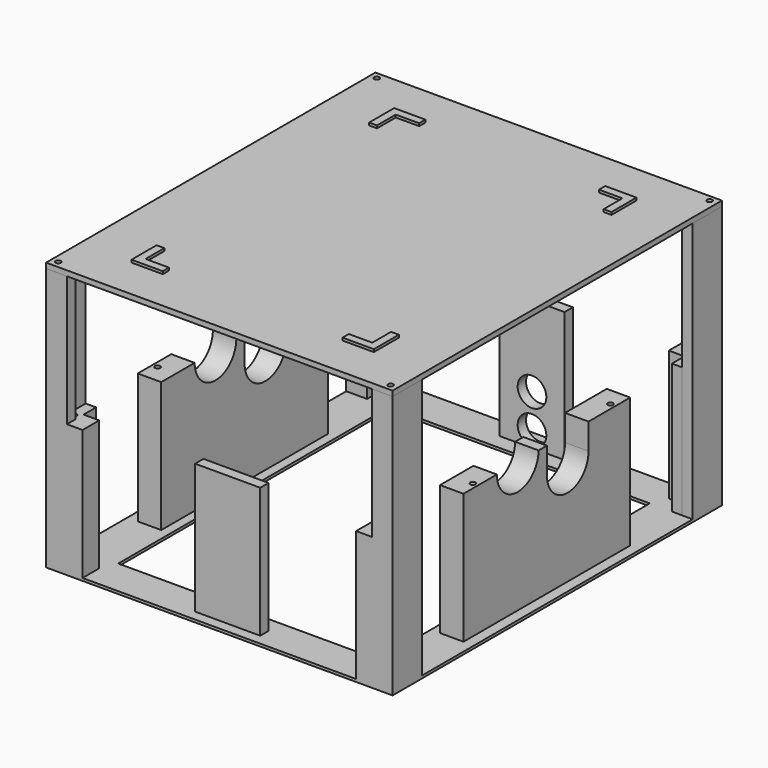
from build123d import *

# Parameters (mm, degrees)
F1_DEPTH  = 1
F2_W      = 125
F2_H      = 150
F3_DEPTH  = 50
F4_W      = 117
F4_H      = 142
F5_DEPTH  = 50
F6_R      = 1
F7_DEPTH  = 3
F8_W      = 20
F8_H      = 10
F10_DEPTH = 129.001
F11_DEPTH = 129.001
F13_DEPTH = 129.001
F14_R     = 5.5
F15_DEPTH = 4
F16_W     = 40
F16_H     = 50
F17_DEPTH = 154.001
F18_W     = 25
F18_H     = 50
F19_DEPTH = 129.001
F20_W     = 10
F20_H     = 4
F20_W_2   = 4
F20_H_2   = 10
F21_DEPTH = 100
F22_R     = 1
F23_DEPTH = 25
F24_DEPTH = 5
F25_DEPTH = 5
F26_W     = 100
F26_H     = 130
F27_DEPTH = 1.001
F28_W     = 6
F28_H     = 50
F29_DEPTH = 158.001
F31_W     = 133
F31_H     = 158
F31_R     = 1
F32_DEPTH = 2
F33_DEPTH = 3


with BuildPart() as f1:
    # F0 (on Top) → F1 (new body)
    with BuildSketch(Plane.XY):
        Polygon((-62.5, 79), (-66.5, 79), (-66.5, -79), (66.5, -79), (66.5, 79), align=None)
    extrude(amount=F1_DEPTH)

    # F2 (on face) → F3 (join)
    with BuildSketch(Plane.XY.offset(1)):
        Rectangle(F2_W, F2_H)
    extrude(amount=F3_DEPTH)

    # F4 (on face) → F5 (cut)
    with BuildSketch(Plane.XY.offset(51)):
        Rectangle(F4_W, F4_H)
    extrude(amount=-F5_DEPTH, mode=Mode.SUBTRACT)

    # F6 (on face) → F7 (cut)
    with BuildSketch(Plane.XY.offset(51)):
        with Locations((-60.5, 73)):
            Circle(F6_R)
        with Locations((60.5, 73)):
            Circle(F6_R)
        with Locations((60.5, 33)):
            Circle(F6_R)
        with Locations((60.5, -33)):
            Circle(F6_R)
        with Locations((60.5, -73)):
            Circle(F6_R)
        with Locations((-60.5, -73)):
            Circle(F6_R)
        with Locations((-60.5, -33)):
            Circle(F6_R)
        with Locations((-60.5, 33)):
            Circle(F6_R)
    extrude(amount=-F7_DEPTH, mode=Mode.SUBTRACT)

    # F8 (on face) → F10 (cut, through all)
    with BuildSketch(Plane.YZ.offset(62.5)):
        with Locations((10, 46)):
            Rectangle(F8_W, F8_H)
    extrude(amount=-F10_DEPTH, mode=Mode.SUBTRACT)

    # F9 (on face) → F11 (cut, through all)
    with BuildSketch(Plane.YZ.offset(62.5)):
        with BuildLine():
            ThreePointArc((10.0000000862, 51), (2.9289321577, 33.9289322186), (20, 41))
            ThreePointArc((20, 41), (17.0710678423, 48.0710677814), (10.0000000862, 51))
        make_face()
    extrude(amount=-F11_DEPTH, mode=Mode.SUBTRACT)

    # F12 (on face) → F13 (cut, through all)
    with BuildSketch(Plane.YZ.offset(62.5)):
        with BuildLine():
            ThreePointArc((-23.9739569277, 51), (-13.9739569277, 41), (-3.9739569277, 51))
            Line((-3.9739569277, 51), (-23.9739569277, 51))
        make_face()
    extrude(amount=-F13_DEPTH, mode=Mode.SUBTRACT)

    # F14 (on face) → F15 (cut)
    with BuildSketch(Plane(origin=(0, 75, 0), x_dir=(-1, 0, 0), z_dir=(0, 1, 0))):
        with Locations((0, 20)):
            Circle(F14_R)
        with Locations((0, 7)):
            Circle(F14_R)
    extrude(amount=-F15_DEPTH, mode=Mode.SUBTRACT)

    # F16 (on face) → F17 (cut, through all)
    with BuildSketch(Plane(origin=(0, 75, 0), x_dir=(-1, 0, 0), z_dir=(0, 1, 0))):
        with Locations((-32.5, 26)):
            Rectangle(F16_W, F16_H)
        with Locations((32.5, 26)):
            Rectangle(F16_W, F16_H)
    extrude(amount=-F17_DEPTH, mode=Mode.SUBTRACT)

    # F18 (on face) → F19 (cut, through all)
    with BuildSketch(Plane(origin=(-62.5, 0, 0), x_dir=(0, -1, 0), z_dir=(-1, 0, 0))):
        with Locations((-52.5, 26)):
            Rectangle(F18_W, F18_H)
        with Locations((52.5, 26)):
            Rectangle(F18_W, F18_H)
    extrude(amount=-F19_DEPTH, mode=Mode.SUBTRACT)

    # F20 (on face) → F21 (join)
    with BuildSketch(Plane.XY.offset(1)):
        Polygon((-62.5, -65), (-66.5, -65), (-66.5, -79), (-62.5, -79), (-62.5, -75), align=None)
        with Locations((-57.5, -77)):
            Rectangle(F20_W, F20_H)
        with Locations((57.5, -77)):
            Rectangle(F20_W, F20_H)
        Polygon((66.5, -79), (66.5, -65), (62.5, -65), (62.5, -75), (62.5, -79), align=None)
        Polygon((-52.5, 79), (-66.5, 79), (-66.5, 75), (-62.5, 75), (-52.5, 75), align=None)
        with Locations((-64.5, 70)):
            Rectangle(F20_W_2, F20_H_2)
        Polygon((66.5, 79), (52.5175742805, 79), (52.5175742805, 75), (62.5, 75), (66.5, 75), align=None)
        Polygon((66.5, 64.9660155177), (66.5, 75), (62.5, 75), (62.5, 65), (62.5, 64.9660155177), align=None)
    extrude(amount=F21_DEPTH)

    # F22 (on face) → F23 (cut)
    with BuildSketch(Plane.XY.offset(101)):
        with Locations((-63.9142135624, 76.4142135624)):
            Circle(F22_R)
        with Locations((63.6722929489, 76.6204102079)):
            Circle(F22_R)
        with Locations((63.7731581912, -76.5424228409)):
            Circle(F22_R)
        with Locations((-64, -76.3228756555)):
            Circle(F22_R)
    extrude(amount=-F23_DEPTH, mode=Mode.SUBTRACT)

    # F24 (add): a face of the model
    f24_faces = [f1.faces().sort_by_distance(p)[0] for p in [
        (58.5, -0.3946744588, 23.4325126547),
    ]]
    extrude(f24_faces, amount=F24_DEPTH)

    # F25 (add): a face of the model
    f25_faces = [f1.faces().sort_by_distance(p)[0] for p in [
        (-58.5, -0.3946744588, 23.4325126547),
    ]]
    extrude(f25_faces, amount=F25_DEPTH)

    # F26 (on face) → F27 (cut, through all)
    with BuildSketch(Plane.XY.offset(1)):
        Rectangle(F26_W, F26_H)
    extrude(amount=-F27_DEPTH, mode=Mode.SUBTRACT)

    # F28 (on face) → F29 (cut, through all)
    with BuildSketch(Plane.XZ.offset(79)):
        with Locations((-55.5, 76)):
            Rectangle(F28_W, F28_H)
        with Locations((55.5, 76)):
            Rectangle(F28_W, F28_H)
    extrude(amount=-F29_DEPTH, mode=Mode.SUBTRACT)


with BuildPart() as f32:
    # F31 (on offset) → F32 (new body)
    with BuildSketch(Plane.XY.offset(101)):
        Rectangle(F31_W, F31_H)
        with Locations((-64, -76.3228756555)):
            Circle(F31_R, mode=Mode.SUBTRACT)
        Polygon((-34.5, -60), (-34.5, -63), (-46.5, -63), (-46.5, -51), (-43.5, -51), (-43.5, -60), align=None, mode=Mode.SUBTRACT)
        with Locations((63.7731581912, -76.5424228409)):
            Circle(F31_R, mode=Mode.SUBTRACT)
        Polygon((43.5, -60), (43.5, -51), (46.5, -51), (46.5, -63), (34.5, -63), (34.5, -60), align=None, mode=Mode.SUBTRACT)
        Polygon((-43.5, 60), (-43.5, 51), (-46.5, 51), (-46.5, 63), (-34.5, 63), (-34.5, 60), align=None, mode=Mode.SUBTRACT)
        with Locations((-63.9142135624, 76.4142135624)):
            Circle(F31_R, mode=Mode.SUBTRACT)
        Polygon((34.5, 63), (46.5, 63), (46.5, 51), (43.5, 51), (43.5, 60), (34.5, 60), align=None, mode=Mode.SUBTRACT)
        with Locations((63.6722929489, 76.6204102079)):
            Circle(F31_R, mode=Mode.SUBTRACT)
    extrude(amount=F32_DEPTH)

    # F31 (on offset) → F33 (join)
    with BuildSketch(Plane.XY.offset(101)):
        Polygon((-46.5, 51), (-43.5, 51), (-43.5, 60), (-34.5, 60), (-34.5, 63), (-46.5, 63), align=None)
        Polygon((46.5, 51), (46.5, 63), (34.5, 63), (34.5, 60), (43.5, 60), (43.5, 51), align=None)
        Polygon((-46.5, -63), (-34.5, -63), (-34.5, -60), (-43.5, -60), (-43.5, -51), (-46.5, -51), align=None)
        Polygon((46.5, -51), (43.5, -51), (43.5, -60), (34.5, -60), (34.5, -63), (46.5, -63), align=None)
    extrude(amount=F33_DEPTH)


solid = Compound([f1.part, f32.part])
